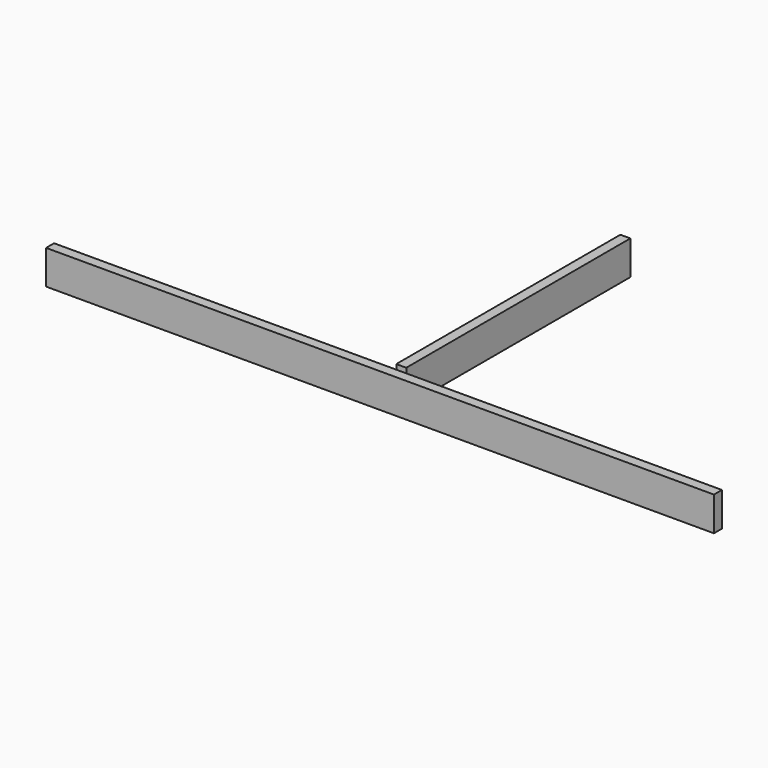
from build123d import *

# Parameters (mm, degrees)
F1_W     = 1174.8
F1_H     = 60
F2_DEPTH = 17.6
F3_W     = 492.8
F3_H     = 60
F4_DEPTH = 17.6


with BuildPart() as f2:
    # F1 (on Front) → F2 (new body)
    with BuildSketch(Plane.XZ):
        Rectangle(F1_W, F1_H)
    extrude(amount=F2_DEPTH)


with BuildPart() as f4:
    # F3 (on Right) → F4 (new body)
    with BuildSketch(Plane.YZ):
        with Locations((264.5408008248, -3.4226291725)):
            Rectangle(F3_W, F3_H)
    extrude(amount=F4_DEPTH)


solid = Compound([f2.part, f4.part])
